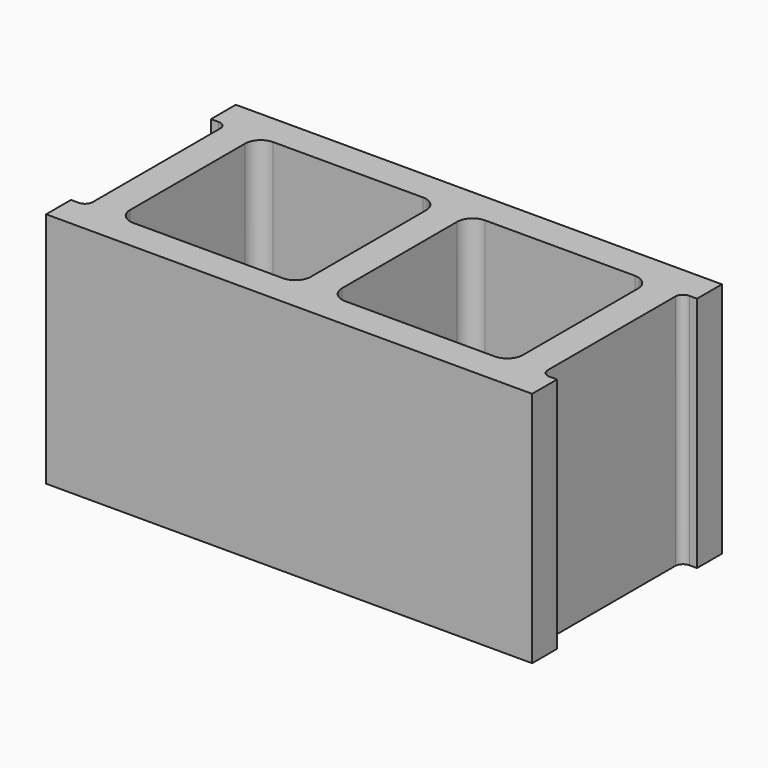
from build123d import *

# Parameters (mm, degrees)
F1_DEPTH = 193.675


with BuildPart() as f1:
    # F0 (on Top) → F1 (new body)
    with BuildSketch(Plane.XY):
        with BuildLine():
            Line((396.875, 0), (0, 0))
            Line((0, 0), (0, -25.4))
            Line((0, -25.4), (6.35, -25.4))
            ThreePointArc((6.35, -25.4), (10.840128, -27.259872), (12.7, -31.75))
            Line((12.7, -31.75), (12.7, -161.925))
            ThreePointArc((12.7, -161.925), (10.840128, -166.415128), (6.35, -168.275))
            Line((6.35, -168.275), (0, -168.275))
            Line((0, -168.275), (0, -193.675))
            Line((0, -193.675), (396.875, -193.675))
            Line((396.875, -193.675), (396.875, -168.275))
            Line((396.875, -168.275), (390.525, -168.275))
            ThreePointArc((390.525, -168.275), (386.034872, -166.415128), (384.175, -161.925))
            Line((384.175, -161.925), (384.175, -31.75))
            ThreePointArc((384.175, -31.75), (386.034872, -27.259872), (390.525, -25.4))
            Line((390.525, -25.4), (396.875, -25.4))
            Line((396.875, -25.4), (396.875, 0))
        make_face()
        with BuildLine():
            Line((38.1, -155.575), (38.1, -96.8375))
            Line((38.1, -96.8375), (38.1, -38.1))
            ThreePointArc((38.1, -38.1), (41.819744, -29.119744), (50.8, -25.4))
            Line((50.8, -25.4), (173.0375, -25.4))
            ThreePointArc((173.0375, -25.4), (182.017756, -29.119744), (185.7375, -38.1))
            Line((185.7375, -38.1), (185.7375, -155.575))
            ThreePointArc((185.7375, -155.575), (182.017756, -164.555256), (173.0375, -168.275))
            Line((173.0375, -168.275), (50.8, -168.275))
            ThreePointArc((50.8, -168.275), (41.819744, -164.555256), (38.1, -155.575))
        make_face(mode=Mode.SUBTRACT)
        with BuildLine():
            Line((358.775, -96.8375), (358.775, -155.575))
            ThreePointArc((358.775, -155.575), (355.055256, -164.555256), (346.075, -168.275))
            Line((346.075, -168.275), (223.8375, -168.275))
            ThreePointArc((223.8375, -168.275), (214.857244, -164.555256), (211.1375, -155.575))
            Line((211.1375, -155.575), (211.1375, -38.1))
            ThreePointArc((211.1375, -38.1), (214.857244, -29.119744), (223.8375, -25.4))
            Line((223.8375, -25.4), (346.075, -25.4))
            ThreePointArc((346.075, -25.4), (355.055256, -29.119744), (358.775, -38.1))
            Line((358.775, -38.1), (358.775, -96.8375))
        make_face(mode=Mode.SUBTRACT)
    extrude(amount=F1_DEPTH)


solid = f1.part
